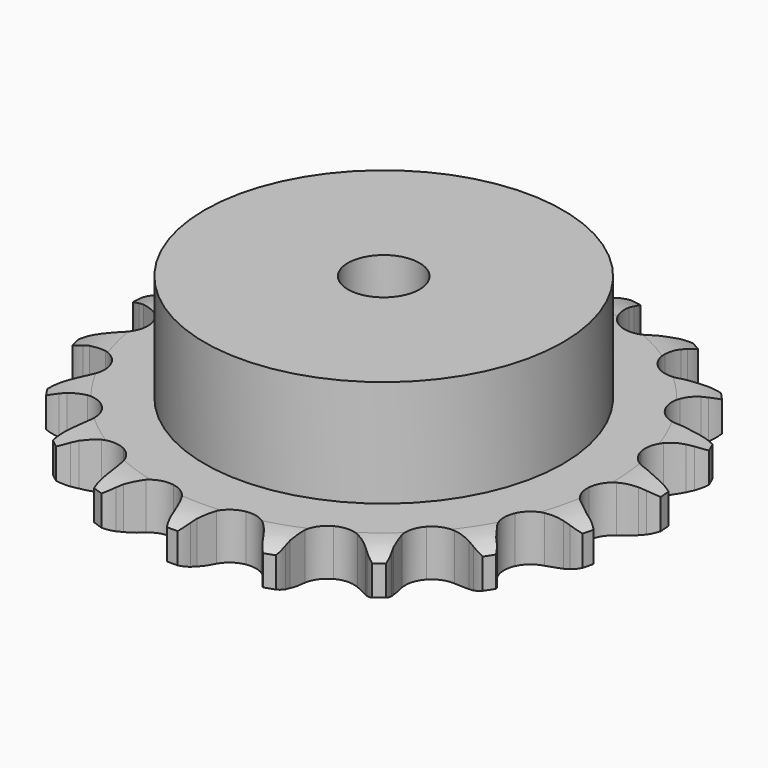
from build123d import *

# Parameters (mm, degrees)
PAD_DEPTH         = 9.1
SKETCH001_R       = 35
PAD001_DEPTH      = 30
SKETCH002_R       = 7
POCKET_DEPTH      = 0.001
POCKET_DEPTH_BACK = -30.001


with BuildPart() as part:
    # Sprocket → Pad (new body)
    with BuildSketch(Plane.XY):
        with BuildLine():
            ThreePointArc((-8.746489, 52.414836), (-7.326669, 50.947056), (-6.302943, 49.180066))
            Line((-6.302943, 49.180066), (-5.815796, 48.038254))
            ThreePointArc((-5.815796, 48.038254), (-5.028476, 46.48424), (-4.044391, 45.046737))
            ThreePointArc((-4.044391, 45.046737), (-2.24839, 43.5985), (0, 43.08105))
            ThreePointArc((0, 43.08105), (2.24839, 43.5985), (4.044391, 45.046737))
            ThreePointArc((4.044391, 45.046737), (5.028476, 46.48424), (5.815796, 48.038254))
            Line((5.815796, 48.038254), (6.302943, 49.180066))
            ThreePointArc((6.302943, 49.180066), (7.326669, 50.947056), (8.746489, 52.414836))
            ThreePointArc((8.746489, 52.414836), (9.612792, 50.565569), (10.007309, 48.561916))
            Line((10.007309, 48.561916), (10.097316, 47.323795))
            ThreePointArc((10.097316, 47.323795), (10.337389, 45.598339), (10.801397, 43.919193))
            ThreePointArc((10.801397, 43.919193), (12.029844, 41.966264), (13.988394, 40.7468))
            ThreePointArc((13.988394, 40.7468), (16.282976, 40.506162), (18.451907, 41.292769))
            Line((18.451907, 41.292769), (21.098676, 43.547023))
            ThreePointArc((21.098676, 43.547023), (21.503641, 44.017635), (21.930174, 44.468792))
            ThreePointArc((21.930174, 44.468792), (23.472172, 45.807638), (25.29165, 46.734875))
            ThreePointArc((25.29165, 46.734875), (25.510558, 44.704519), (25.233113, 42.68133))
            Line((25.233113, 42.68133), (24.916227, 41.481068))
            ThreePointArc((24.916227, 41.481068), (24.583037, 39.77115), (24.476686, 38.032322))
            ThreePointArc((24.476686, 38.032322), (25.004457, 35.786332), (26.460928, 33.997002))
            ThreePointArc((26.460928, 33.997002), (28.553049, 33.024353), (30.859872, 33.064089))
            Line((30.859872, 33.064089), (34.095187, 34.336797))
            ThreePointArc((34.095187, 34.336797), (34.631017, 34.650417), (35.180929, 34.938634))
            ThreePointArc((35.180929, 34.938634), (37.0741, 35.704252), (39.096067, 35.990465))
            ThreePointArc((39.096067, 35.990465), (38.643859, 33.99904), (37.724519, 32.175559))
            Line((37.724519, 32.175559), (37.035078, 31.143224))
            ThreePointArc((37.035078, 31.143224), (36.164732, 29.634141), (35.499546, 28.024059))
            ThreePointArc((35.499546, 28.024059), (35.26945, 25.728396), (36.066011, 23.563101))
            ThreePointArc((36.066011, 23.563101), (37.728956, 21.963843), (39.923691, 21.252401))
            Line((39.923691, 21.252401), (43.396955, 21.405646))
            ThreePointArc((43.396955, 21.405646), (44.005585, 21.528289), (44.619286, 21.622333))
            ThreePointArc((44.619286, 21.622333), (46.658475, 21.731757), (48.66382, 21.34593))
            ThreePointArc((48.66382, 21.34593), (47.589498, 19.609237), (46.127887, 18.183067))
            Line((46.127887, 18.183067), (45.140603, 17.430528))
            ThreePointArc((45.140603, 17.430528), (43.827416, 16.285812), (42.67548, 14.978954))
            ThreePointArc((42.67548, 14.978954), (41.71245, 12.882389), (41.762781, 10.575772))
            ThreePointArc((41.762781, 10.575772), (42.816345, 8.523209), (44.661159, 7.137686))
            Line((44.661159, 7.137686), (47.99599, 6.15486))
            ThreePointArc((47.99599, 6.15486), (48.611465, 6.073237), (49.22245, 5.962917))
            ThreePointArc((49.22245, 5.962917), (51.18668, 5.404288), (52.958092, 4.388233))
            ThreePointArc((52.958092, 4.388233), (51.378077, 3.09447), (49.532584, 2.220158))
            Line((49.532584, 2.220158), (48.354444, 1.828964))
            ThreePointArc((48.354444, 1.828964), (46.740721, 1.172663), (45.226863, 0.310648))
            ThreePointArc((45.226863, 0.310648), (43.63526, -1.359625), (42.933906, -3.557605))
            ThreePointArc((42.933906, -3.557605), (43.263919, -5.841046), (44.558897, -7.750508))
            Line((44.558897, -7.750508), (47.393915, -9.762899))
            ThreePointArc((47.393915, -9.762899), (47.949539, -10.039945), (48.491598, -10.342673))
            ThreePointArc((48.491598, -10.342673), (50.168014, -11.508819), (51.513533, -13.044998))
            ThreePointArc((51.513533, -13.044998), (49.599044, -13.755631), (47.569656, -13.98334))
            Line((47.569656, -13.98334), (46.328331, -13.970796))
            ThreePointArc((46.328331, -13.970796), (44.588942, -14.067562), (42.877214, -14.391323))
            ThreePointArc((42.877214, -14.391323), (40.829511, -15.454302), (39.452476, -17.305461))
            ThreePointArc((39.452476, -17.305461), (39.023176, -19.572334), (39.627987, -21.798814))
            Line((39.627987, -21.798814), (41.655974, -24.622698))
            ThreePointArc((41.655974, -24.622698), (42.091536, -25.065143), (42.505929, -25.527475))
            ThreePointArc((42.505929, -25.527475), (43.712865, -27.174767), (44.486684, -29.064601))
            ThreePointArc((44.486684, -29.064601), (42.445185, -29.115097), (40.451818, -28.671526))
            Line((40.451818, -28.671526), (39.281824, -28.256604))
            ThreePointArc((39.281824, -28.256604), (37.60526, -27.783349), (35.881154, -27.53377))
            ThreePointArc((35.881154, -27.53377), (33.599252, -27.874266), (31.695758, -29.178001))
            ThreePointArc((31.695758, -29.178001), (30.553666, -31.182655), (30.40277, -33.48488))
            Line((30.40277, -33.48488), (31.403961, -36.814244))
            ThreePointArc((31.403961, -36.814244), (31.672262, -37.374144), (31.914083, -37.945978))
            ThreePointArc((31.914083, -37.945978), (32.520749, -39.895907), (32.639012, -41.934603))
            ThreePointArc((32.639012, -41.934603), (30.691731, -41.319489), (28.950397, -40.252707))
            Line((28.950397, -40.252707), (27.978522, -39.480371))
            ThreePointArc((27.978522, -39.480371), (26.546465, -38.488379), (24.996813, -37.692506))
            ThreePointArc((24.996813, -37.692506), (22.727992, -37.273621), (20.504313, -37.888652))
            ThreePointArc((20.504313, -37.888652), (18.773193, -39.413852), (17.882941, -41.542341))
            Line((17.882941, -41.542341), (17.748842, -45.016397))
            ThreePointArc((17.748842, -45.016397), (17.820807, -45.633076), (17.863851, -46.252446))
            ThreePointArc((17.863851, -46.252446), (17.804505, -48.293707), (17.254397, -50.260341))
            ThreePointArc((17.254397, -50.260341), (15.612352, -49.046274), (14.311752, -47.471883))
            Line((14.311752, -47.471883), (13.643313, -46.425827))
            ThreePointArc((13.643313, -46.425827), (12.610948, -45.022595), (11.40368, -43.766674))
            ThreePointArc((11.40368, -43.766674), (9.393802, -42.633801), (7.090908, -42.49348))
            ThreePointArc((7.090908, -42.49348), (4.958352, -43.373946), (3.425218, -45.098044))
            Line((3.425218, -45.098044), (2.170361, -48.340324))
            ThreePointArc((2.170361, -48.340324), (2.038191, -48.946956), (1.877793, -49.546744))
            ThreePointArc((1.877793, -49.546744), (1.158867, -51.458134), (0, -53.13959))
            ThreePointArc((0, -53.13959), (-1.158867, -51.458134), (-1.877793, -49.546744))
            Line((-1.877793, -49.546744), (-2.170361, -48.340324))
            ThreePointArc((-2.170361, -48.340324), (-2.691161, -46.677915), (-3.425218, -45.098044))
            ThreePointArc((-3.425218, -45.098044), (-4.958352, -43.373946), (-7.090908, -42.49348))
            ThreePointArc((-7.090908, -42.49348), (-9.393802, -42.633801), (-11.40368, -43.766674))
            Line((-11.40368, -43.766674), (-13.643313, -46.425827))
            ThreePointArc((-13.643313, -46.425827), (-13.965295, -46.956675), (-14.311752, -47.471883))
            ThreePointArc((-14.311752, -47.471883), (-15.612352, -49.046274), (-17.254397, -50.260341))
            ThreePointArc((-17.254397, -50.260341), (-17.804505, -48.293707), (-17.863851, -46.252446))
            Line((-17.863851, -46.252446), (-17.748842, -45.016397))
            ThreePointArc((-17.748842, -45.016397), (-17.70164, -43.274959), (-17.882941, -41.542341))
            ThreePointArc((-17.882941, -41.542341), (-18.773193, -39.413852), (-20.504313, -37.888652))
            ThreePointArc((-20.504313, -37.888652), (-22.727992, -37.273621), (-24.996813, -37.692506))
            Line((-24.996813, -37.692506), (-27.978522, -39.480371))
            ThreePointArc((-27.978522, -39.480371), (-28.455424, -39.877909), (-28.950397, -40.252707))
            ThreePointArc((-28.950397, -40.252707), (-30.691731, -41.319489), (-32.639012, -41.934603))
            ThreePointArc((-32.639012, -41.934603), (-32.520749, -39.895907), (-31.914083, -37.945978))
            Line((-31.914083, -37.945978), (-31.403961, -36.814244))
            ThreePointArc((-31.403961, -36.814244), (-30.793873, -35.182489), (-30.40277, -33.48488))
            ThreePointArc((-30.40277, -33.48488), (-30.553666, -31.182655), (-31.695758, -29.178001))
            ThreePointArc((-31.695758, -29.178001), (-33.599252, -27.874266), (-35.881154, -27.53377))
            Line((-35.881154, -27.53377), (-39.281824, -28.256604))
            ThreePointArc((-39.281824, -28.256604), (-39.861967, -28.477753), (-40.451818, -28.671526))
            ThreePointArc((-40.451818, -28.671526), (-42.445185, -29.115097), (-44.486684, -29.064601))
            ThreePointArc((-44.486684, -29.064601), (-43.712865, -27.174767), (-42.505929, -25.527475))
            Line((-42.505929, -25.527475), (-41.655974, -24.622698))
            ThreePointArc((-41.655974, -24.622698), (-40.549111, -23.27745), (-39.627987, -21.798814))
            ThreePointArc((-39.627987, -21.798814), (-39.023176, -19.572334), (-39.452476, -17.305461))
            ThreePointArc((-39.452476, -17.305461), (-40.829511, -15.454302), (-42.877214, -14.391323))
            Line((-42.877214, -14.391323), (-46.328331, -13.970796))
            ThreePointArc((-46.328331, -13.970796), (-46.948846, -13.99159), (-47.569656, -13.98334))
            ThreePointArc((-47.569656, -13.98334), (-49.599044, -13.755631), (-51.513533, -13.044998))
            ThreePointArc((-51.513533, -13.044998), (-50.168014, -11.508819), (-48.491598, -10.342673))
            Line((-48.491598, -10.342673), (-47.393915, -9.762899))
            ThreePointArc((-47.393915, -9.762899), (-45.910224, -8.849939), (-44.558897, -7.750508))
            ThreePointArc((-44.558897, -7.750508), (-43.263919, -5.841046), (-42.933906, -3.557605))
            ThreePointArc((-42.933906, -3.557605), (-43.63526, -1.359625), (-45.226863, 0.310648))
            Line((-45.226863, 0.310648), (-48.354444, 1.828964))
            ThreePointArc((-48.354444, 1.828964), (-48.94809, 2.010779), (-49.532584, 2.220158))
            ThreePointArc((-49.532584, 2.220158), (-51.378077, 3.09447), (-52.958092, 4.388233))
            ThreePointArc((-52.958092, 4.388233), (-51.18668, 5.404288), (-49.22245, 5.962917))
            Line((-49.22245, 5.962917), (-47.99599, 6.15486))
            ThreePointArc((-47.99599, 6.15486), (-46.296252, 6.536601), (-44.661159, 7.137686))
            ThreePointArc((-44.661159, 7.137686), (-42.816345, 8.523209), (-41.762781, 10.575772))
            ThreePointArc((-41.762781, 10.575772), (-41.71245, 12.882389), (-42.67548, 14.978954))
            Line((-42.67548, 14.978954), (-45.140603, 17.430528))
            ThreePointArc((-45.140603, 17.430528), (-45.643049, 17.795248), (-46.127887, 18.183067))
            ThreePointArc((-46.127887, 18.183067), (-47.589498, 19.609237), (-48.66382, 21.34593))
            ThreePointArc((-48.66382, 21.34593), (-46.658475, 21.731757), (-44.619286, 21.622333))
            Line((-44.619286, 21.622333), (-43.396955, 21.405646))
            ThreePointArc((-43.396955, 21.405646), (-41.665363, 21.214798), (-39.923691, 21.252401))
            ThreePointArc((-39.923691, 21.252401), (-37.728956, 21.963843), (-36.066011, 23.563101))
            ThreePointArc((-36.066011, 23.563101), (-35.26945, 25.728396), (-35.499546, 28.024059))
            Line((-35.499546, 28.024059), (-37.035078, 31.143224))
            ThreePointArc((-37.035078, 31.143224), (-37.391875, 31.651326), (-37.724519, 32.175559))
            ThreePointArc((-37.724519, 32.175559), (-38.643859, 33.99904), (-39.096067, 35.990465))
            ThreePointArc((-39.096067, 35.990465), (-37.0741, 35.704252), (-35.180929, 34.938634))
            Line((-35.180929, 34.938634), (-34.095187, 34.336797))
            ThreePointArc((-34.095187, 34.336797), (-32.519385, 33.594043), (-30.859872, 33.064089))
            ThreePointArc((-30.859872, 33.064089), (-28.553049, 33.024353), (-26.460928, 33.997002))
            ThreePointArc((-26.460928, 33.997002), (-25.004457, 35.786332), (-24.476686, 38.032322))
            Line((-24.476686, 38.032322), (-24.916227, 41.481068))
            ThreePointArc((-24.916227, 41.481068), (-25.088711, 42.077492), (-25.233113, 42.68133))
            ThreePointArc((-25.233113, 42.68133), (-25.510558, 44.704519), (-25.29165, 46.734875))
            ThreePointArc((-25.29165, 46.734875), (-23.472172, 45.807638), (-21.930174, 44.468792))
            Line((-21.930174, 44.468792), (-21.098676, 43.547023))
            ThreePointArc((-21.098676, 43.547023), (-19.849427, 42.332852), (-18.451907, 41.292769))
            ThreePointArc((-18.451907, 41.292769), (-16.282976, 40.506162), (-13.988394, 40.7468))
            ThreePointArc((-13.988394, 40.7468), (-12.029844, 41.966264), (-10.801397, 43.919193))
            Line((-10.801397, 43.919193), (-10.097316, 47.323795))
            ThreePointArc((-10.097316, 47.323795), (-10.066797, 47.943909), (-10.007309, 48.561916))
            ThreePointArc((-10.007309, 48.561916), (-9.612792, 50.565569), (-8.746489, 52.414836))
        make_face()
    extrude(amount=PAD_DEPTH)

    # Sketch → Groove (revolve, cut)
    with BuildSketch(Plane.XZ):
        with BuildLine():
            Line((44.675762, 0), (51.65, 0))
            Line((58.624238, 0), (51.65, 0))
            Line((58.624238, 9.1), (58.624238, 0))
            Line((51.65, 9.1), (58.624238, 9.1))
            Line((44.675762, 9.1), (51.65, 9.1))
            ThreePointArc((51.65, 7.5), (48.25347, 8.694871), (44.675762, 9.1))
            Line((51.65, 1.6), (51.65, 7.5))
            ThreePointArc((44.675762, 0), (48.25347, 0.405129), (51.65, 1.6))
        make_face()
    revolve(axis=Axis((0, 0, 0), (0, 0, 1)), mode=Mode.SUBTRACT)

    # Sketch001 → Pad001 (join)
    with BuildSketch(Plane.XY):
        Circle(SKETCH001_R)
    extrude(amount=PAD001_DEPTH)

    # Sketch002 → Pocket (cut, two sides)
    with BuildSketch(Plane.XY) as pocket_sk:
        Circle(SKETCH002_R)
    extrude(amount=-POCKET_DEPTH, mode=Mode.SUBTRACT)
    extrude(pocket_sk.sketch, amount=-POCKET_DEPTH_BACK, mode=Mode.SUBTRACT)


solid = part.part
